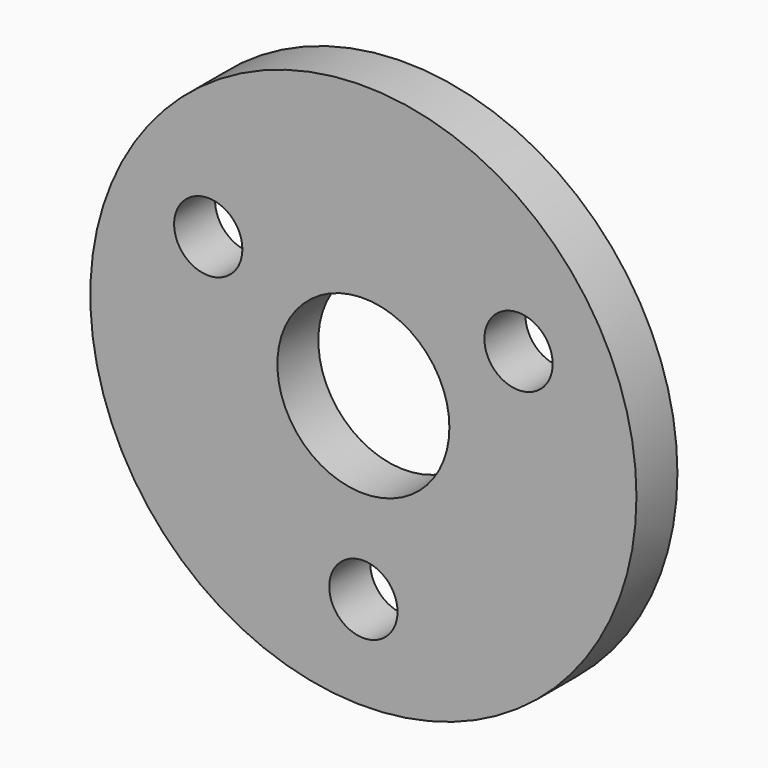
from build123d import *

# Parameters (mm, degrees)
F0_R     = 25.4
F0_R_2   = 3.175
F0_R_3   = 8
F1_DEPTH = 4.7625


with BuildPart() as f1:
    # F0 (on Front) → F1 (new body)
    with BuildSketch(Plane.XZ):
        Circle(F0_R)
        with Locations((0, -16.6624)):
            Circle(F0_R_2, mode=Mode.SUBTRACT)
        Circle(F0_R_3, mode=Mode.SUBTRACT)
        with Locations((-14.430062, 8.3312)):
            Circle(F0_R_2, mode=Mode.SUBTRACT)
        with Locations((14.430062, 8.3312)):
            Circle(F0_R_2, mode=Mode.SUBTRACT)
    extrude(amount=F1_DEPTH)


solid = f1.part
